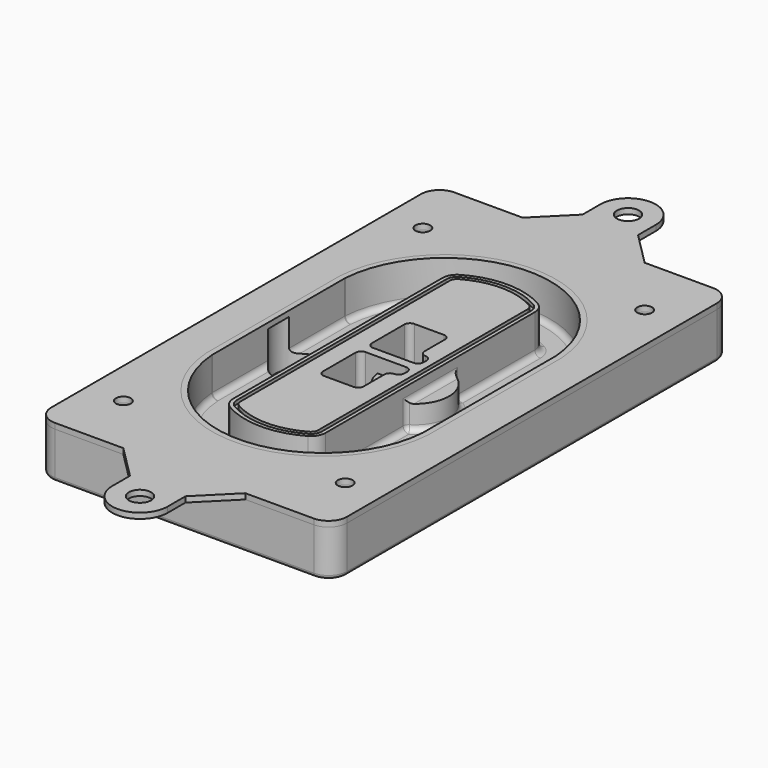
from build123d import *

# Parameters (mm, degrees)
F0_R      = 4
F1_DEPTH  = 25
F2_DEPTH  = 3
F3_DEPTH  = 18
F5_DEPTH  = 21
F6_DEPTH  = 2
F8_DEPTH  = 20
F9_DEPTH  = 16
F10_DEPTH = 25
F7_R      = 6
F7_R_2    = 4
F11_DEPTH = 6
F13_DEPTH = 9
F14_R     = 3
F15_R     = 2
F16_R     = 6
F16_R_2   = 4
F17_DEPTH = 3


with BuildPart() as f1:
    # F0 (on Top) → F1 (new body)
    with BuildSketch(Plane.XY):
        with BuildLine():
            ThreePointArc((-80, -125), (-77.0710678119, -132.0710678119), (-70, -135))
            Line((-70, -135), (70, -135))
            ThreePointArc((70, -135), (77.0710678119, -132.0710678119), (80, -125))
            Line((80, -125), (80, 125))
            ThreePointArc((80, 125), (77.0710678119, 132.0710678119), (70, 135))
            Line((70, 135), (-70, 135))
            ThreePointArc((-70, 135), (-77.0710678119, 132.0710678119), (-80, 125))
            Line((-80, 125), (-80, -125))
        make_face()
        with Locations((-60, -101.25)):
            Circle(F0_R, mode=Mode.SUBTRACT)
        with Locations((60, -101.25)):
            Circle(F0_R, mode=Mode.SUBTRACT)
        with Locations((-60, 101.25)):
            Circle(F0_R, mode=Mode.SUBTRACT)
        with BuildLine():
            ThreePointArc((-64, 44.6627429245), (-63.991269098, 45.1571001106), (-63.9650872818, 45.6508406989))
            ThreePointArc((-63.9650872818, 45.6508406989), (0, 105.25), (63.9650872818, 45.6508406989))
            ThreePointArc((63.9650872818, 45.6508406989), (63.991269098, 45.1571001106), (64, 44.6627429245))
            Line((64, 44.6627429245), (64, -44.6627429245))
            ThreePointArc((64, -44.6627429245), (63.991269098, -45.1571001106), (63.9650872818, -45.6508406989))
            ThreePointArc((63.9650872818, -45.6508406989), (0, -105.25), (-63.9650872818, -45.6508406989))
            ThreePointArc((-63.9650872818, -45.6508406989), (-63.991269098, -45.1571001106), (-64, -44.6627429245))
            Line((-64, -44.6627429245), (-64, 44.6627429245))
        make_face(mode=Mode.SUBTRACT)
        with Locations((60, 101.25)):
            Circle(F0_R, mode=Mode.SUBTRACT)
        with BuildLine():
            ThreePointArc((63.9650872818, 45.6508406989), (0, 105.25), (-63.9650872818, 45.6508406989))
            ThreePointArc((-63.9650872818, 45.6508406989), (-63.991269098, 45.1571001106), (-64, 44.6627429245))
            Line((-64, 44.6627429245), (-64, -44.6627429245))
            ThreePointArc((-64, -44.6627429245), (-63.991269098, -45.1571001106), (-63.9650872818, -45.6508406989))
            ThreePointArc((-63.9650872818, -45.6508406989), (0, -105.25), (63.9650872818, -45.6508406989))
            ThreePointArc((63.9650872818, -45.6508406989), (63.991269098, -45.1571001106), (64, -44.6627429245))
            Line((64, -44.6627429245), (64, 44.6627429245))
            ThreePointArc((64, 44.6627429245), (63.991269098, 45.1571001106), (63.9650872818, 45.6508406989))
        make_face()
        with BuildLine():
            Line((-60, -44.6627429245), (-60, 44.6627429245))
            ThreePointArc((-60, 44.6627429245), (-59.9937636414, 45.0158552003), (-59.9750623441, 45.3685270491))
            ThreePointArc((-59.9750623441, 45.3685270491), (0, 101.25), (59.9750623441, 45.3685270491))
            ThreePointArc((59.9750623441, 45.3685270491), (59.9937636414, 45.0158552003), (60, 44.6627429245))
            Line((60, 44.6627429245), (60, -44.6627429245))
            ThreePointArc((60, -44.6627429245), (59.9937636414, -45.0158552003), (59.9750623441, -45.3685270491))
            ThreePointArc((59.9750623441, -45.3685270491), (0, -101.25), (-59.9750623441, -45.3685270491))
            ThreePointArc((-59.9750623441, -45.3685270491), (-59.9937636414, -45.0158552003), (-60, -44.6627429245))
        make_face(mode=Mode.SUBTRACT)
        with BuildLine():
            ThreePointArc((-59.9750623441, 45.3685270491), (-59.9937636414, 45.0158552003), (-60, 44.6627429245))
            Line((-60, 44.6627429245), (-60, -44.6627429245))
            ThreePointArc((-60, -44.6627429245), (-59.9937636414, -45.0158552003), (-59.9750623441, -45.3685270491))
            ThreePointArc((-59.9750623441, -45.3685270491), (0, -101.25), (59.9750623441, -45.3685270491))
            ThreePointArc((59.9750623441, -45.3685270491), (59.9937636414, -45.0158552003), (60, -44.6627429245))
            Line((60, -44.6627429245), (60, 44.6627429245))
            ThreePointArc((60, 44.6627429245), (59.9937636414, 45.0158552003), (59.9750623441, 45.3685270491))
            ThreePointArc((59.9750623441, 45.3685270491), (0, 101.25), (-59.9750623441, 45.3685270491))
        make_face()
        with BuildLine():
            ThreePointArc((56.9825436409, 45.1567918117), (56.995634549, 44.9099215176), (57, 44.6627429245))
            Line((57, 44.6627429245), (57, -44.6627429245))
            ThreePointArc((57, -44.6627429245), (56.995634549, -44.9099215176), (56.9825436409, -45.1567918117))
            ThreePointArc((56.9825436409, -45.1567918117), (0, -98.25), (-56.9825436409, -45.1567918117))
            ThreePointArc((-56.9825436409, -45.1567918117), (-56.995634549, -44.9099215176), (-57, -44.6627429245))
            Line((-57, -44.6627429245), (-57, 44.6627429245))
            ThreePointArc((-57, 44.6627429245), (-56.995634549, 44.9099215176), (-56.9825436409, 45.1567918117))
            ThreePointArc((-56.9825436409, 45.1567918117), (0, 98.25), (56.9825436409, 45.1567918117))
        make_face(mode=Mode.SUBTRACT)
        with BuildLine():
            Line((57, -44.6627429245), (57, 44.6627429245))
            ThreePointArc((57, 44.6627429245), (56.995634549, 44.9099215176), (56.9825436409, 45.1567918117))
            ThreePointArc((56.9825436409, 45.1567918117), (0, 98.25), (-56.9825436409, 45.1567918117))
            ThreePointArc((-56.9825436409, 45.1567918117), (-56.995634549, 44.9099215176), (-57, 44.6627429245))
            Line((-57, 44.6627429245), (-57, -44.6627429245))
            ThreePointArc((-57, -44.6627429245), (-56.995634549, -44.9099215176), (-56.9825436409, -45.1567918117))
            ThreePointArc((-56.9825436409, -45.1567918117), (0, -98.25), (56.9825436409, -45.1567918117))
            ThreePointArc((56.9825436409, -45.1567918117), (56.995634549, -44.9099215176), (57, -44.6627429245))
        make_face()
    extrude(amount=-F1_DEPTH)

    # F0 (on Top) → F2 (join)
    with BuildSketch(Plane.XY):
        with BuildLine():
            ThreePointArc((-59.9750623441, 45.3685270491), (-59.9937636414, 45.0158552003), (-60, 44.6627429245))
            Line((-60, 44.6627429245), (-60, -44.6627429245))
            ThreePointArc((-60, -44.6627429245), (-59.9937636414, -45.0158552003), (-59.9750623441, -45.3685270491))
            ThreePointArc((-59.9750623441, -45.3685270491), (0, -101.25), (59.9750623441, -45.3685270491))
            ThreePointArc((59.9750623441, -45.3685270491), (59.9937636414, -45.0158552003), (60, -44.6627429245))
            Line((60, -44.6627429245), (60, 44.6627429245))
            ThreePointArc((60, 44.6627429245), (59.9937636414, 45.0158552003), (59.9750623441, 45.3685270491))
            ThreePointArc((59.9750623441, 45.3685270491), (0, 101.25), (-59.9750623441, 45.3685270491))
        make_face()
        with BuildLine():
            ThreePointArc((56.9825436409, 45.1567918117), (56.995634549, 44.9099215176), (57, 44.6627429245))
            Line((57, 44.6627429245), (57, -44.6627429245))
            ThreePointArc((57, -44.6627429245), (56.995634549, -44.9099215176), (56.9825436409, -45.1567918117))
            ThreePointArc((56.9825436409, -45.1567918117), (0, -98.25), (-56.9825436409, -45.1567918117))
            ThreePointArc((-56.9825436409, -45.1567918117), (-56.995634549, -44.9099215176), (-57, -44.6627429245))
            Line((-57, -44.6627429245), (-57, 44.6627429245))
            ThreePointArc((-57, 44.6627429245), (-56.995634549, 44.9099215176), (-56.9825436409, 45.1567918117))
            ThreePointArc((-56.9825436409, 45.1567918117), (0, 98.25), (56.9825436409, 45.1567918117))
        make_face(mode=Mode.SUBTRACT)
    extrude(amount=F2_DEPTH)

    # F0 (on Top) → F3 (cut)
    with BuildSketch(Plane.XY):
        with BuildLine():
            Line((57, -44.6627429245), (57, 44.6627429245))
            ThreePointArc((57, 44.6627429245), (56.995634549, 44.9099215176), (56.9825436409, 45.1567918117))
            ThreePointArc((56.9825436409, 45.1567918117), (0, 98.25), (-56.9825436409, 45.1567918117))
            ThreePointArc((-56.9825436409, 45.1567918117), (-56.995634549, 44.9099215176), (-57, 44.6627429245))
            Line((-57, 44.6627429245), (-57, -44.6627429245))
            ThreePointArc((-57, -44.6627429245), (-56.995634549, -44.9099215176), (-56.9825436409, -45.1567918117))
            ThreePointArc((-56.9825436409, -45.1567918117), (0, -98.25), (56.9825436409, -45.1567918117))
            ThreePointArc((56.9825436409, -45.1567918117), (56.995634549, -44.9099215176), (57, -44.6627429245))
        make_face()
    extrude(amount=-F3_DEPTH, mode=Mode.SUBTRACT)

    # F4 (on face) → F5 (join, through all)
    with BuildSketch(Plane.XY.offset(3)):
        with BuildLine():
            ThreePointArc((-25, -70.7141132851), (-23.9239722661, -74.7214325959), (-20.9853479853, -77.6507552274))
            ThreePointArc((-20.9853479853, -77.6507552274), (0, -83.25), (20.9853479853, -77.6507552274))
            ThreePointArc((20.9853479853, -77.6507552274), (23.9239722661, -74.7214325959), (25, -70.7141132851))
            Line((25, -70.7141132851), (25, 70.7141132851))
            ThreePointArc((25, 70.7141132851), (23.9239722661, 74.7214325959), (20.9853479853, 77.6507552274))
            ThreePointArc((20.9853479853, 77.6507552274), (0, 83.25), (-20.9853479853, 77.6507552274))
            ThreePointArc((-20.9853479853, 77.6507552274), (-23.9239722661, 74.7214325959), (-25, 70.7141132851))
            Line((-25, 70.7141132851), (-25, -70.7141132851))
        make_face()
        with BuildLine():
            ThreePointArc((19.989010989, 75.9165947419), (22.1929791996, 73.7196027682), (23, 70.7141132851))
            Line((23, 70.7141132851), (23, -70.7141132851))
            ThreePointArc((23, -70.7141132851), (22.1929791996, -73.7196027682), (19.989010989, -75.9165947419))
            ThreePointArc((19.989010989, -75.9165947419), (0, -81.25), (-19.989010989, -75.9165947419))
            ThreePointArc((-19.989010989, -75.9165947419), (-22.1929791996, -73.7196027682), (-23, -70.7141132851))
            Line((-23, -70.7141132851), (-23, 70.7141132851))
            ThreePointArc((-23, 70.7141132851), (-22.1929791996, 73.7196027682), (-19.989010989, 75.9165947419))
            ThreePointArc((-19.989010989, 75.9165947419), (0, 81.25), (19.989010989, 75.9165947419))
        make_face(mode=Mode.SUBTRACT)
        with BuildLine():
            Line((23, -70.7141132851), (23, 70.7141132851))
            ThreePointArc((23, 70.7141132851), (22.1929791996, 73.7196027682), (19.989010989, 75.9165947419))
            ThreePointArc((19.989010989, 75.9165947419), (0, 81.25), (-19.989010989, 75.9165947419))
            ThreePointArc((-19.989010989, 75.9165947419), (-22.1929791996, 73.7196027682), (-23, 70.7141132851))
            Line((-23, 70.7141132851), (-23, -70.7141132851))
            ThreePointArc((-23, -70.7141132851), (-22.1929791996, -73.7196027682), (-19.989010989, -75.9165947419))
            ThreePointArc((-19.989010989, -75.9165947419), (0, -81.25), (19.989010989, -75.9165947419))
            ThreePointArc((19.989010989, -75.9165947419), (22.1929791996, -73.7196027682), (23, -70.7141132851))
        make_face()
        with BuildLine():
            ThreePointArc((18.9926739927, 74.1824342563), (20.461986133, 72.7177729405), (21, 70.7141132851))
            Line((21, 70.7141132851), (21, -70.7141132851))
            ThreePointArc((21, -70.7141132851), (20.461986133, -72.7177729405), (18.9926739927, -74.1824342563))
            ThreePointArc((18.9926739927, -74.1824342563), (0, -79.25), (-18.9926739927, -74.1824342563))
            ThreePointArc((-18.9926739927, -74.1824342563), (-20.461986133, -72.7177729405), (-21, -70.7141132851))
            Line((-21, -70.7141132851), (-21, 70.7141132851))
            ThreePointArc((-21, 70.7141132851), (-20.461986133, 72.7177729405), (-18.9926739927, 74.1824342563))
            ThreePointArc((-18.9926739927, 74.1824342563), (0, 79.25), (18.9926739927, 74.1824342563))
        make_face(mode=Mode.SUBTRACT)
        with BuildLine():
            Line((21, -70.7141132851), (21, 70.7141132851))
            ThreePointArc((21, 70.7141132851), (20.461986133, 72.7177729405), (18.9926739927, 74.1824342563))
            ThreePointArc((18.9926739927, 74.1824342563), (0, 79.25), (-18.9926739927, 74.1824342563))
            ThreePointArc((-18.9926739927, 74.1824342563), (-20.461986133, 72.7177729405), (-21, 70.7141132851))
            Line((-21, 70.7141132851), (-21, -70.7141132851))
            ThreePointArc((-21, -70.7141132851), (-20.461986133, -72.7177729405), (-18.9926739927, -74.1824342563))
            ThreePointArc((-18.9926739927, -74.1824342563), (0, -79.25), (18.9926739927, -74.1824342563))
            ThreePointArc((18.9926739927, -74.1824342563), (20.461986133, -72.7177729405), (21, -70.7141132851))
        make_face()
        with BuildLine():
            Line((-8, -2.5), (14, -2.5))
            ThreePointArc((14, -2.5), (16.1213203436, -3.3786796564), (17, -5.5))
            Line((17, -5.5), (17, -7.5))
            ThreePointArc((17, -7.5), (16.1213203436, -9.6213203436), (14, -10.5))
            ThreePointArc((14, -10.5), (11.8786796564, -11.3786796564), (11, -13.5))
            Line((11, -13.5), (11, -27.5))
            ThreePointArc((11, -27.5), (10.1213203436, -29.6213203436), (8, -30.5))
            Line((8, -30.5), (-8, -30.5))
            ThreePointArc((-8, -30.5), (-10.1213203436, -29.6213203436), (-11, -27.5))
            Line((-11, -27.5), (-11, -5.5))
            ThreePointArc((-11, -5.5), (-10.1213203436, -3.3786796564), (-8, -2.5))
        make_face(mode=Mode.SUBTRACT)
        with BuildLine():
            ThreePointArc((-8, 2.5), (-10.1213203436, 3.3786796564), (-11, 5.5))
            Line((-11, 5.5), (-11, 27.5))
            ThreePointArc((-11, 27.5), (-10.1213203436, 29.6213203436), (-8, 30.5))
            Line((-8, 30.5), (8, 30.5))
            ThreePointArc((8, 30.5), (10.1213203436, 29.6213203436), (11, 27.5))
            Line((11, 27.5), (11, 13.5))
            ThreePointArc((11, 13.5), (11.8786796564, 11.3786796564), (14, 10.5))
            ThreePointArc((14, 10.5), (16.1213203436, 9.6213203436), (17, 7.5))
            Line((17, 7.5), (17, 5.5))
            ThreePointArc((17, 5.5), (16.1213203436, 3.3786796564), (14, 2.5))
            Line((14, 2.5), (-8, 2.5))
        make_face(mode=Mode.SUBTRACT)
    extrude(amount=-F5_DEPTH)

    # F4 (on face) → F6 (cut)
    with BuildSketch(Plane.XY.offset(3)):
        with BuildLine():
            Line((23, -70.7141132851), (23, 70.7141132851))
            ThreePointArc((23, 70.7141132851), (22.1929791996, 73.7196027682), (19.989010989, 75.9165947419))
            ThreePointArc((19.989010989, 75.9165947419), (0, 81.25), (-19.989010989, 75.9165947419))
            ThreePointArc((-19.989010989, 75.9165947419), (-22.1929791996, 73.7196027682), (-23, 70.7141132851))
            Line((-23, 70.7141132851), (-23, -70.7141132851))
            ThreePointArc((-23, -70.7141132851), (-22.1929791996, -73.7196027682), (-19.989010989, -75.9165947419))
            ThreePointArc((-19.989010989, -75.9165947419), (0, -81.25), (19.989010989, -75.9165947419))
            ThreePointArc((19.989010989, -75.9165947419), (22.1929791996, -73.7196027682), (23, -70.7141132851))
        make_face()
        with BuildLine():
            ThreePointArc((18.9926739927, 74.1824342563), (20.461986133, 72.7177729405), (21, 70.7141132851))
            Line((21, 70.7141132851), (21, -70.7141132851))
            ThreePointArc((21, -70.7141132851), (20.461986133, -72.7177729405), (18.9926739927, -74.1824342563))
            ThreePointArc((18.9926739927, -74.1824342563), (0, -79.25), (-18.9926739927, -74.1824342563))
            ThreePointArc((-18.9926739927, -74.1824342563), (-20.461986133, -72.7177729405), (-21, -70.7141132851))
            Line((-21, -70.7141132851), (-21, 70.7141132851))
            ThreePointArc((-21, 70.7141132851), (-20.461986133, 72.7177729405), (-18.9926739927, 74.1824342563))
            ThreePointArc((-18.9926739927, 74.1824342563), (0, 79.25), (18.9926739927, 74.1824342563))
        make_face(mode=Mode.SUBTRACT)
    extrude(amount=-F6_DEPTH, mode=Mode.SUBTRACT)

    # F7 (on face) → F8 (join)
    with BuildSketch(Plane(origin=(0, 0, -25), x_dir=(1, 0, 0), z_dir=(0, 0, -1))):
        with BuildLine():
            ThreePointArc((3.28842436, 0), (16.7567035675, 13.4682792075), (30.224982775, 0))
            Line((30.224982775, 0), (35.224982775, 0))
            ThreePointArc((35.224982775, 0), (16.7567035675, 18.4682792075), (-1.71157564, 0))
            Line((-1.71157564, 0), (3.28842436, 0))
        make_face()
        with BuildLine():
            Line((3.28842436, 0), (30.224982775, 0))
            ThreePointArc((30.224982775, 0), (16.7567035675, 13.4682792075), (3.28842436, 0))
        make_face()
        with BuildLine():
            ThreePointArc((3.28842436, 0), (16.7567035675, -13.4682792075), (30.224982775, 0))
            Line((30.224982775, 0), (3.28842436, 0))
        make_face()
        with BuildLine():
            Line((35.224982775, 0), (30.224982775, 0))
            ThreePointArc((30.224982775, 0), (16.7567035675, -13.4682792075), (3.28842436, 0))
            Line((3.28842436, 0), (-1.71157564, 0))
            ThreePointArc((-1.71157564, 0), (16.7567035675, -18.4682792075), (35.224982775, 0))
        make_face()
    extrude(amount=-F8_DEPTH)

    # F7 (on face) → F9 (cut)
    with BuildSketch(Plane(origin=(0, 0, -25), x_dir=(1, 0, 0), z_dir=(0, 0, -1))):
        with BuildLine():
            Line((3.28842436, 0), (30.224982775, 0))
            ThreePointArc((30.224982775, 0), (16.7567035675, 13.4682792075), (3.28842436, 0))
        make_face()
        with BuildLine():
            ThreePointArc((3.28842436, 0), (16.7567035675, -13.4682792075), (30.224982775, 0))
            Line((30.224982775, 0), (3.28842436, 0))
        make_face()
    extrude(amount=-F9_DEPTH, mode=Mode.SUBTRACT)

    # F7 (on face) → F10 (cut)
    with BuildSketch(Plane(origin=(0, 0, -25), x_dir=(1, 0, 0), z_dir=(0, 0, -1))):
        with BuildLine():
            Line((-59.0318229325, 0), (-32.0952645175, 0))
            ThreePointArc((-32.0952645175, 0), (-45.563543725, 13.4682792075), (-59.0318229325, 0))
        make_face()
        with BuildLine():
            ThreePointArc((-59.0318229325, 0), (-45.563543725, -13.4682792075), (-32.0952645175, 0))
            Line((-32.0952645175, 0), (-59.0318229325, 0))
        make_face()
    extrude(amount=-F10_DEPTH, mode=Mode.SUBTRACT)

    # F7 (on face) → F11 (cut)
    with BuildSketch(Plane(origin=(0, 0, -25), x_dir=(1, 0, 0), z_dir=(0, 0, -1))):
        with Locations((60, -101.25)):
            Circle(F7_R)
        with Locations((60, -101.25)):
            Circle(F7_R_2, mode=Mode.SUBTRACT)
        with Locations((60, -101.25)):
            Circle(F7_R)
        with Locations((60, -101.25)):
            Circle(F7_R_2, mode=Mode.SUBTRACT)
        with Locations((-60, -101.25)):
            Circle(F7_R)
        with Locations((-60, -101.25)):
            Circle(F7_R_2, mode=Mode.SUBTRACT)
        with Locations((-60, -101.25)):
            Circle(F7_R)
        with Locations((-60, -101.25)):
            Circle(F7_R_2, mode=Mode.SUBTRACT)
        with Locations((-60, 101.25)):
            Circle(F7_R)
        with Locations((-60, 101.25)):
            Circle(F7_R_2, mode=Mode.SUBTRACT)
        with Locations((-60, 101.25)):
            Circle(F7_R)
        with Locations((-60, 101.25)):
            Circle(F7_R_2, mode=Mode.SUBTRACT)
        with Locations((60, 101.25)):
            Circle(F7_R)
        with Locations((60, 101.25)):
            Circle(F7_R_2, mode=Mode.SUBTRACT)
        with Locations((60, 101.25)):
            Circle(F7_R)
        with Locations((60, 101.25)):
            Circle(F7_R_2, mode=Mode.SUBTRACT)
    extrude(amount=-F11_DEPTH, mode=Mode.SUBTRACT)

    # F12 (on face) → F13 (cut, through all)
    with BuildSketch(Plane(origin=(0, 0, -9), x_dir=(1, 0, 0), z_dir=(0, 0, -1))):
        with BuildLine():
            Line((11, 13.5), (11, 17.5481537753))
            ThreePointArc((11, 17.5481537753), (2.5696536419, 11.8239143813), (-1.5415842455, 2.5))
            Line((-1.5415842455, 2.5), (3.5224848595, 2.5))
            ThreePointArc((3.5224848595, 2.5), (6.1857188154, 8.3455872281), (11.2536447004, 12.2927168648))
            ThreePointArc((11.2536447004, 12.2927168648), (11.0640958889, 12.8831798879), (11, 13.5))
        make_face()
        with BuildLine():
            ThreePointArc((11.2536447004, -12.2927168648), (6.1857188154, -8.3455872281), (3.5224848595, -2.5))
            Line((3.5224848595, -2.5), (-1.5415842455, -2.5))
            ThreePointArc((-1.5415842455, -2.5), (2.5696536419, -11.8239143813), (11, -17.5481537753))
            Line((11, -17.5481537753), (11, -13.5))
            ThreePointArc((11, -13.5), (11.0640958889, -12.8831798879), (11.2536447004, -12.2927168648))
        make_face()
        with BuildLine():
            ThreePointArc((11.2536447004, 12.2927168648), (6.1857188154, 8.3455872281), (3.5224848595, 2.5))
            Line((3.5224848595, 2.5), (14, 2.5))
            ThreePointArc((14, 2.5), (16.1213203436, 3.3786796564), (17, 5.5))
            Line((17, 5.5), (17, 7.5))
            ThreePointArc((17, 7.5), (16.1213203436, 9.6213203436), (14, 10.5))
            ThreePointArc((14, 10.5), (12.3601599782, 10.9878446101), (11.2536447004, 12.2927168648))
        make_face()
        with BuildLine():
            Line((14, -2.5), (3.5224848595, -2.5))
            ThreePointArc((3.5224848595, -2.5), (6.1857188154, -8.3455872281), (11.2536447004, -12.2927168648))
            ThreePointArc((11.2536447004, -12.2927168648), (12.3601599782, -10.9878446101), (14, -10.5))
            ThreePointArc((14, -10.5), (16.1213203436, -9.6213203436), (17, -7.5))
            Line((17, -7.5), (17, -5.5))
            ThreePointArc((17, -5.5), (16.1213203436, -3.3786796564), (14, -2.5))
        make_face()
    extrude(amount=F13_DEPTH, mode=Mode.SUBTRACT)

    # F14
    f14_edges = [f1.edges().sort_by_distance(p)[0] for p in [
        (-57, -25.888126, -18),
        (-57, 25.888126, -18),
        (25, 0, -5),
        (25, 16.526506, -11.5),
        (25, -16.526506, -11.5),
        (25, -43.62031, -18),
        (35.224983, 0, -18),
    ]]
    fillet(f14_edges, radius=F14_R)

    # F15
    f15_edges = [f1.edges().sort_by_distance(p)[0] for p in [
        (0, -135, -25),
    ]]
    fillet(f15_edges, radius=F15_R)


with BuildPart() as f17:
    # F16 (on face) → F17 (new body, through all)
    with BuildSketch(Plane.XY):
        with BuildLine():
            Line((33, -135), (-33, -135))
            Line((-33, -135), (-15, -153))
            Line((-15, -153), (-15, -165))
            ThreePointArc((-15, -165), (0, -180), (15, -165))
            Line((15, -165), (15, -153))
            Line((15, -153), (33, -135))
        make_face()
        with Locations((0, -165)):
            Circle(F16_R, mode=Mode.SUBTRACT)
        with BuildLine():
            ThreePointArc((15, 165), (0, 180), (-15, 165))
            Line((-15, 165), (-15, 153))
            Line((-15, 153), (-33, 135))
            Line((-33, 135), (33, 135))
            Line((33, 135), (15, 153))
            Line((15, 153), (15, 165))
        make_face()
        with Locations((0, 165)):
            Circle(F16_R, mode=Mode.SUBTRACT)
        with BuildLine():
            Line((33, 135), (-33, 135))
            Line((-33, 135), (-70, 135))
            ThreePointArc((-70, 135), (-77.0710678119, 132.0710678119), (-80, 125))
            Line((-80, 125), (-80, -125))
            ThreePointArc((-80, -125), (-77.0710678119, -132.0710678119), (-70, -135))
            Line((-70, -135), (-33, -135))
            Line((-33, -135), (33, -135))
            Line((33, -135), (70, -135))
            ThreePointArc((70, -135), (77.0710678119, -132.0710678119), (80, -125))
            Line((80, -125), (80, 125))
            ThreePointArc((80, 125), (77.0710678119, 132.0710678119), (70, 135))
            Line((70, 135), (33, 135))
        make_face()
        with Locations((-60, -101.25)):
            Circle(F16_R_2, mode=Mode.SUBTRACT)
        with Locations((60, -101.25)):
            Circle(F16_R_2, mode=Mode.SUBTRACT)
        with Locations((-60, 101.25)):
            Circle(F16_R_2, mode=Mode.SUBTRACT)
        with BuildLine():
            ThreePointArc((-60, 44.6627429245), (-59.9937636414, 45.0158552003), (-59.9750623441, 45.3685270491))
            ThreePointArc((-59.9750623441, 45.3685270491), (0, 101.25), (59.9750623441, 45.3685270491))
            ThreePointArc((59.9750623441, 45.3685270491), (59.9937636414, 45.0158552003), (60, 44.6627429245))
            Line((60, 44.6627429245), (60, -44.6627429245))
            ThreePointArc((60, -44.6627429245), (59.9937636414, -45.0158552003), (59.9750623441, -45.3685270491))
            ThreePointArc((59.9750623441, -45.3685270491), (0, -101.25), (-59.9750623441, -45.3685270491))
            ThreePointArc((-59.9750623441, -45.3685270491), (-59.9937636414, -45.0158552003), (-60, -44.6627429245))
            Line((-60, -44.6627429245), (-60, 44.6627429245))
        make_face(mode=Mode.SUBTRACT)
        with Locations((60, 101.25)):
            Circle(F16_R_2, mode=Mode.SUBTRACT)
    extrude(amount=F17_DEPTH)


solid = Compound([f1.part, f17.part])
